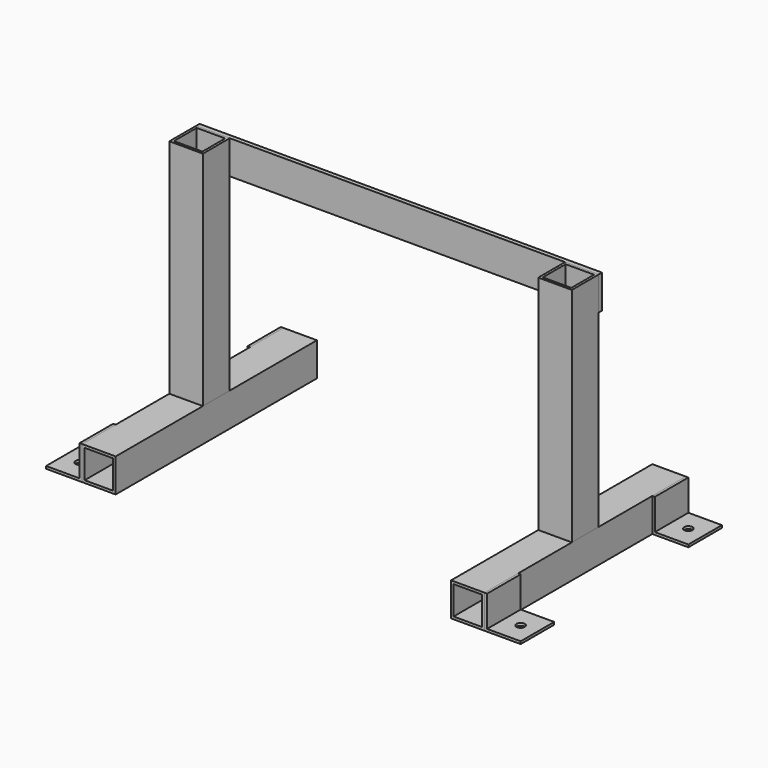
from build123d import *

# Parameters (mm, degrees)
F0_W      = 40
F0_H      = 40
F0_W_2    = 34
F0_H_2    = 34
F1_DEPTH  = 150
F2_W      = 34
F2_H      = 34
F3_DEPTH  = 265
F2_W_2    = 40
F2_H_2    = 40
F5_DEPTH  = 50
F8_DEPTH  = 50
F9_W      = 440
F9_H      = 40
F9_W_2    = 40
F10_DEPTH = 5
F11_R     = 5
F12_DEPTH = 25


with BuildPart() as f1:
    # F0 (on Front) → F1 (new body, symmetric)
    with BuildSketch(Plane.XZ):
        with Locations((-220, 20)):
            Rectangle(F0_W, F0_H)
        with Locations((-220, 20)):
            Rectangle(F0_W_2, F0_H_2, mode=Mode.SUBTRACT)
    extrude(amount=F1_DEPTH, both=True)


with BuildPart() as f1b:
    # F0 (on Front) → F1, piece 2 (new body, symmetric)
    with BuildSketch(Plane.XZ):
        with Locations((220, 20)):
            Rectangle(F0_W, F0_H)
        with Locations((220, 20)):
            Rectangle(F0_W_2, F0_H_2, mode=Mode.SUBTRACT)
    extrude(amount=F1_DEPTH, both=True)


with BuildPart() as f3:
    # F2 (on face) → F3 (new body)
    with BuildSketch(Plane.XY.offset(40)):
        Polygon((-240, 20), (-240, 0), (-240, -20), (-200, -20), (-200, 20), align=None)
        with Locations((-220, 0)):
            Rectangle(F2_W, F2_H, mode=Mode.SUBTRACT)
    extrude(amount=F3_DEPTH)


with BuildPart() as f3b:
    # F2 (on face) → F3, piece 2 (new body)
    with BuildSketch(Plane.XY.offset(40)):
        with Locations((220, 0)):
            Rectangle(F2_W_2, F2_H_2)
        with Locations((220, 0)):
            Rectangle(F2_W, F2_H, mode=Mode.SUBTRACT)
    extrude(amount=F3_DEPTH)


with BuildPart() as f5:
    # F4 (on face) → F5 (new body)
    with BuildSketch(Plane.XZ.offset(150)):
        Polygon((-240, 0), (-240, 40), (-243, 40), (-243, 3), (-283, 3), (-283, 0), align=None)
    extrude(amount=-F5_DEPTH)


with BuildPart() as f5b:
    # F4 (on face) → F5, piece 2 (new body)
    with BuildSketch(Plane.XZ.offset(150)):
        Polygon((283, 3), (243, 3), (243, 40), (240, 40), (240, 0), (283, 0), align=None)
    extrude(amount=-F5_DEPTH)


with BuildPart() as f6_1:
    # F6: instance of F5b
    add(f5b.part.mirror(Plane.XZ))


with BuildPart() as f8:
    # F7 (on face) → F8 (new body)
    with BuildSketch(Plane(origin=(0, 150, 0), x_dir=(-1, 0, 0), z_dir=(0, 1, 0))):
        Polygon((240, 0), (283, 0), (283, 3), (243, 3), (243, 40), (240, 40), align=None)
    extrude(amount=-F8_DEPTH)


with BuildPart() as f10:
    # F9 (on face) → F10 (new body)
    with BuildSketch(Plane(origin=(0, 20, 0), x_dir=(-1, 0, 0), z_dir=(0, 1, 0))):
        with Locations((-20, 285)):
            Rectangle(F9_W, F9_H)
        with Locations((220, 285)):
            Rectangle(F9_W_2, F9_H)
    extrude(amount=F10_DEPTH)


with BuildPart() as f12_tool:
    # F11 (on face) → F12 (new body)
    with BuildSketch(Plane.XY.offset(3)):
        with BuildLine():
            ThreePointArc((-258, 125), (-259.4644660941, 128.5355339059), (-263, 130))
            Line((-263, 130), (-263, 125))
            Line((-263, 125), (-263, 120))
            ThreePointArc((-263, 120), (-259.4644660941, 121.4644660941), (-258, 125))
        make_face()
        with BuildLine():
            Line((-263, 120), (-263, 125))
            Line((-263, 125), (-268, 125))
            ThreePointArc((-268, 125), (-266.5355339059, 121.4644660941), (-263, 120))
        make_face()
        with BuildLine():
            Line((-263, 125), (-263, 130))
            ThreePointArc((-263, 130), (-266.5355339059, 128.5355339059), (-268, 125))
            Line((-268, 125), (-263, 125))
        make_face()
        with Locations((-263, -125)):
            Circle(F11_R)
        with Locations((263, -125)):
            Circle(F11_R)
        with Locations((263, 125)):
            Circle(F11_R)
    extrude(amount=-F12_DEPTH)


with BuildPart() as f5_1:
    add(f5.part)

    # F12: cut by f12_tool
    add(f12_tool.part, mode=Mode.SUBTRACT)


with BuildPart() as f5b_1:
    add(f5b.part)

    # F12: cut by f12_tool
    add(f12_tool.part, mode=Mode.SUBTRACT)


with BuildPart() as f6_1_1:
    add(f6_1.part)

    # F12: cut by f12_tool
    add(f12_tool.part, mode=Mode.SUBTRACT)


with BuildPart() as f8_1:
    add(f8.part)

    # F12: cut by f12_tool
    add(f12_tool.part, mode=Mode.SUBTRACT)


solid = Compound([f1.part, f1b.part, f3.part, f3b.part, f10.part, f5_1.part, f5b_1.part, f6_1_1.part, f8_1.part])
